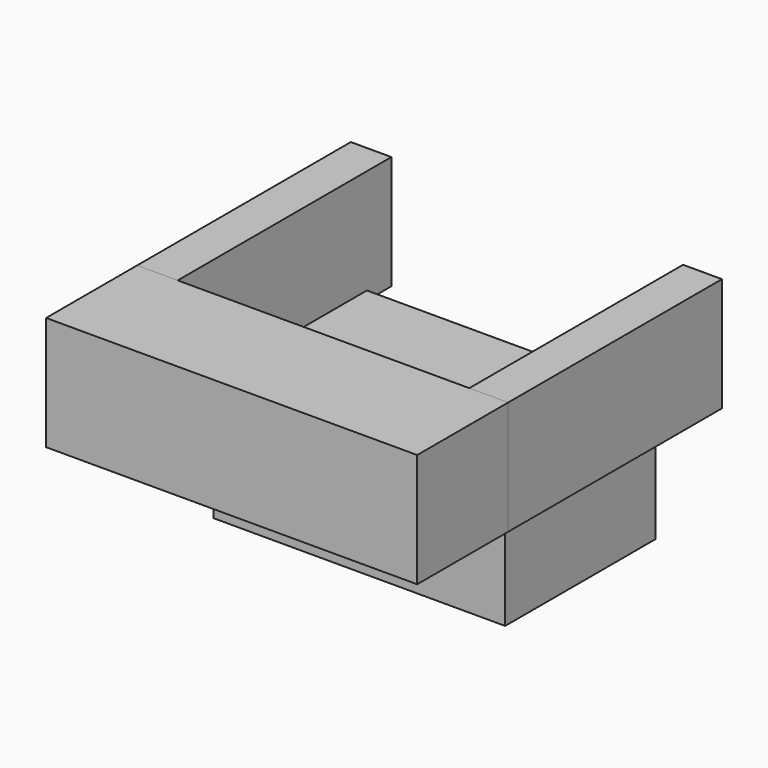
from build123d import *

# Parameters (mm, degrees)
F1_DEPTH = 25.4
F0_W     = 65.102479
F0_H     = 41.892032
F0_W_2   = 58.309173
F0_H_2   = 34.155215
F2_DEPTH = 25.4
F3_DEPTH = 4.318
F4_W     = 82.840543
F4_H     = 25.4
F5_DEPTH = 25.4


with BuildPart() as f1:
    # F0 (on Top) → F1 (new body)
    with BuildSketch(Plane.XY):
        Polygon((-43.1186, 30.003751), (-52.176334, 30.003751), (-52.176334, -29.626343), (-43.1186, -29.626343), (-43.1186, -19.625096), (-43.1186, 22.266936), align=None)
        Polygon((21.983879, 30.003751), (21.983879, 22.266936), (21.983879, -19.625096), (21.983879, -29.626343), (30.664209, -29.626343), (30.664209, 30.003751), align=None)
    extrude(amount=F1_DEPTH)


with BuildPart() as f2:
    # F0 (on Top) → F2 (new body)
    with BuildSketch(Plane.XY):
        with Locations((-10.567361, 1.32092)):
            Rectangle(F0_W, F0_H)
        with Locations((-11.133466, 2.547489)):
            Rectangle(F0_W_2, F0_H_2, mode=Mode.SUBTRACT)
        with Locations((-11.133466, 2.547489)):
            Rectangle(F0_W_2, F0_H_2)
    extrude(amount=-F2_DEPTH)


with BuildPart() as f3:
    # F0 (on Top) → F3 (new body)
    with BuildSketch(Plane.XY):
        with Locations((-11.133466, 2.547489)):
            Rectangle(F0_W_2, F0_H_2)
    extrude(amount=F3_DEPTH)


with BuildPart() as f5:
    # F4 (on face) → F5 (new body)
    with BuildSketch(Plane.XZ.offset(29.626343)):
        with Locations((-10.756062, 12.7)):
            Rectangle(F4_W, F4_H)
    extrude(amount=F5_DEPTH)


solid = Compound([f1.part, f2.part, f3.part, f5.part])
